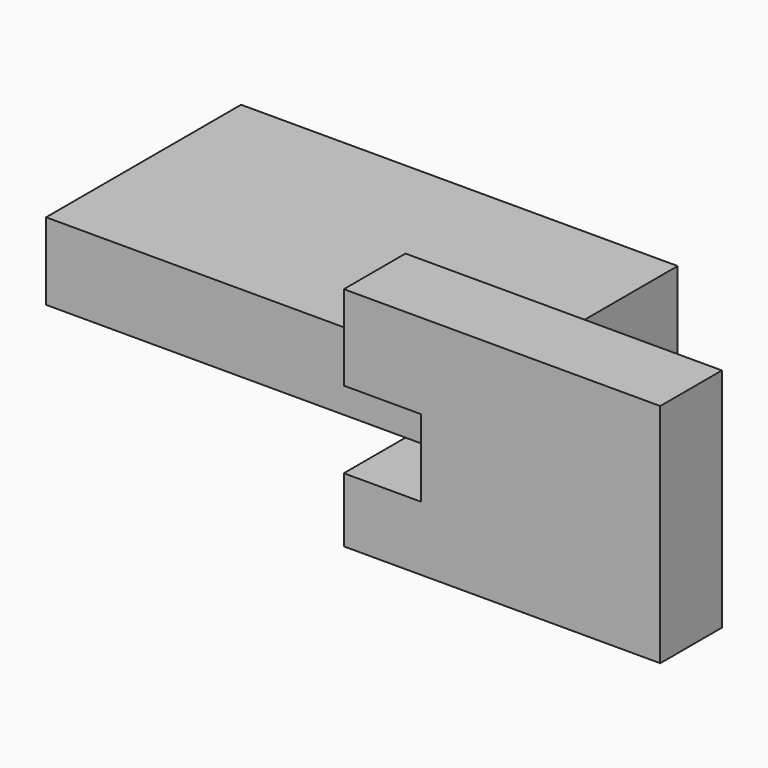
from build123d import *

# Parameters (mm, degrees)
F0_W     = 141.577351
F0_H     = 79.039559
F1_DEPTH = 25
F3_DEPTH = 25


with BuildPart() as f1:
    # F0 (on Top) → F1 (new body)
    with BuildSketch(Plane.XY):
        with Locations((-19.649846, 16.10675)):
            Rectangle(F0_W, F0_H)
    extrude(amount=F1_DEPTH)


with BuildPart() as f3:
    # F2 (on face) → F3 (new body)
    with BuildSketch(Plane.XZ.offset(23.413029)):
        Polygon((128.724188, 52.548137), (26.118238, 52.548137), (26.118238, 25), (51.138829, 25), (51.138829, 0), (26.118238, 0), (26.118238, -20.88806), (128.724188, -20.88806), align=None)
    extrude(amount=F3_DEPTH)


solid = Compound([f1.part, f3.part])
